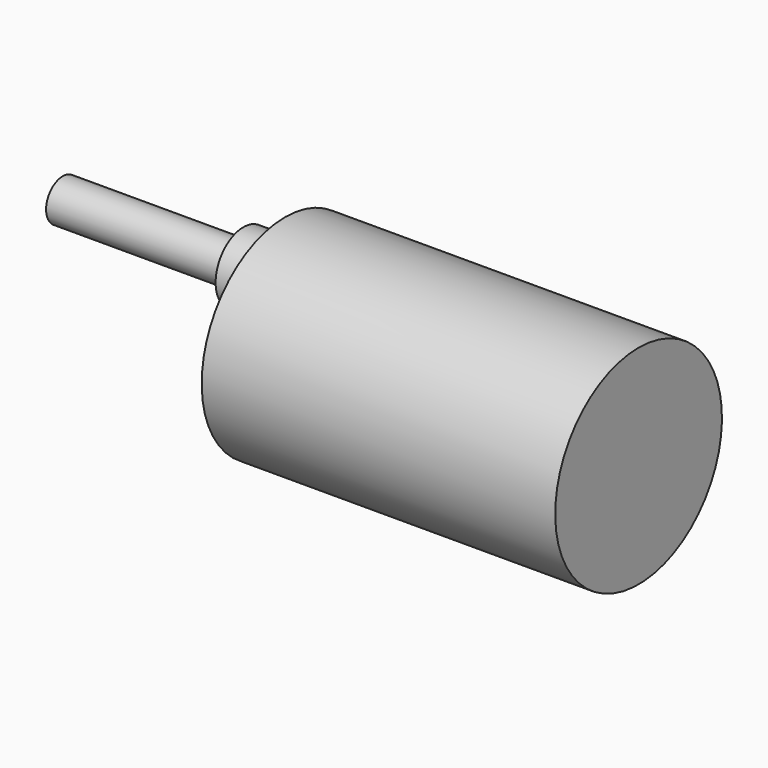
from build123d import *

# Parameters (mm, degrees)
F0_W     = 64.6176
F0_H     = 19.05
F2_R     = 6.35
F3_DEPTH = 7.62
F4_R     = 3.81
F5_DEPTH = 33.02


with BuildPart() as f1:
    # F0 (on Front) → F1 (revolve)
    with BuildSketch(Plane.XZ):
        with Locations((6.097645, 9.525)):
            Rectangle(F0_W, F0_H)
    revolve(axis=Axis((6.097645, 0, 0), (1, 0, 0)))

    # F2 (on face) → F3 (join)
    with BuildSketch(Plane(origin=(-26.211155, 0, 0), x_dir=(0, -1, 0), z_dir=(-1, 0, 0))):
        with Locations((0, 8.60392)):
            Circle(F2_R)
    extrude(amount=F3_DEPTH)

    # F4 (on face) → F5 (join)
    with BuildSketch(Plane(origin=(-33.831155, 0, 0), x_dir=(0, -1, 0), z_dir=(-1, 0, 0))):
        with Locations((0, 8.60392)):
            Circle(F4_R)
    extrude(amount=F5_DEPTH)


solid = f1.part
